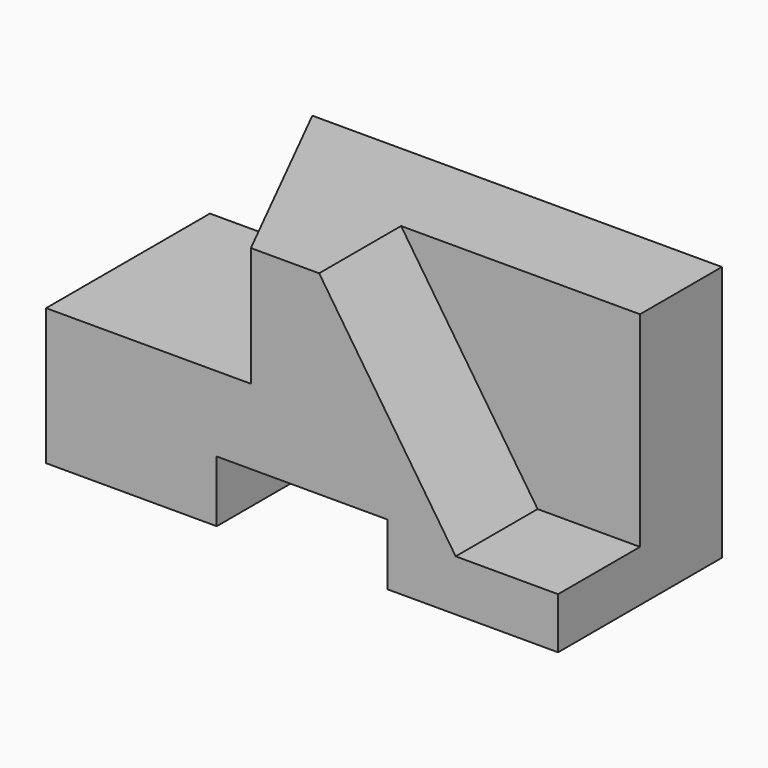
from build123d import *

# Parameters (mm, degrees)
F1_DEPTH = 60
F3_DEPTH = 30
F5_DEPTH = 35


with BuildPart() as f1:
    # F0 (on Front) → F1 (new body)
    with BuildSketch(Plane.XZ):
        Polygon((-75, 40), (-75, 0), (-25, 0), (-25, 18), (25, 18), (25, 0), (75, 0), (75, 75), (-45, 75), (-45, 40), align=None)
    extrude(amount=F1_DEPTH)

    # F2 (on face) → F3 (cut)
    with BuildSketch(Plane.XZ.offset(60)):
        Polygon((75, 15), (75, 75), (5, 75), (45, 15), align=None)
    extrude(amount=-F3_DEPTH, mode=Mode.SUBTRACT)

    # F4 (on face) → F5 (cut)
    with BuildSketch(Plane.XY.offset(75)):
        Polygon((-15, -60), (-45, 0), (-45, -60), align=None)
    extrude(amount=-F5_DEPTH, mode=Mode.SUBTRACT)


solid = f1.part
